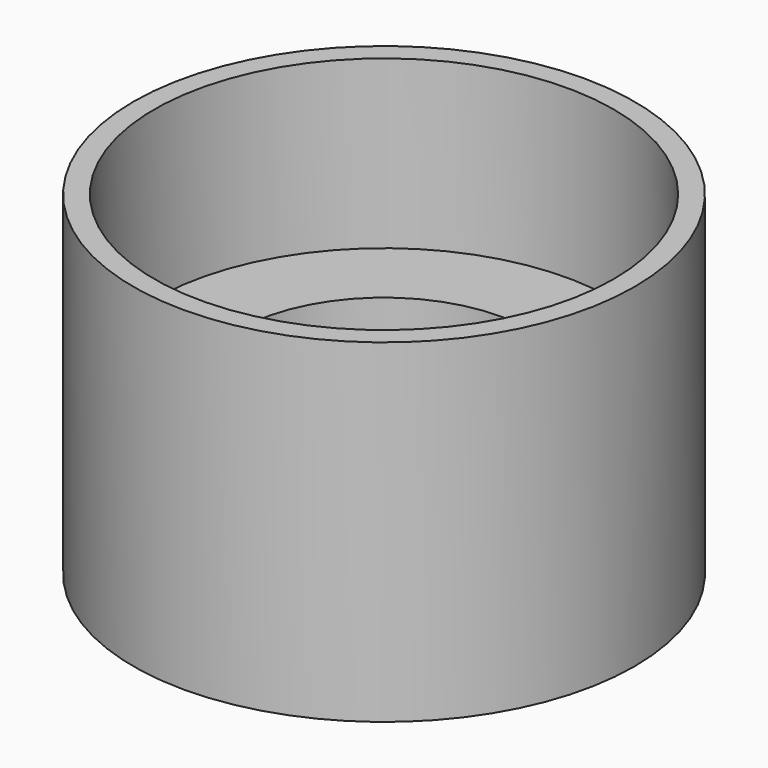
from build123d import *

# Parameters (mm, degrees)
CYLINDER_R      = 12
CYLINDER_DEPTH  = 16
SKETCH_R        = 11
POCKET_DEPTH    = 8
SKETCH001_R     = 7
POCKET001_DEPTH = 5


with BuildPart() as part:
    # Cylinder → Cylinder (new body)
    with BuildSketch(Plane.XY):
        Circle(CYLINDER_R)
    extrude(amount=CYLINDER_DEPTH)

    # Sketch → Pocket (cut)
    with BuildSketch(Plane.XY.offset(16)):
        Circle(SKETCH_R)
    extrude(amount=-POCKET_DEPTH, mode=Mode.SUBTRACT)

    # Sketch001 → Pocket001 (cut)
    with BuildSketch(Plane.XY.offset(8)):
        Circle(SKETCH001_R)
    extrude(amount=-POCKET001_DEPTH, mode=Mode.SUBTRACT)


solid = part.part
